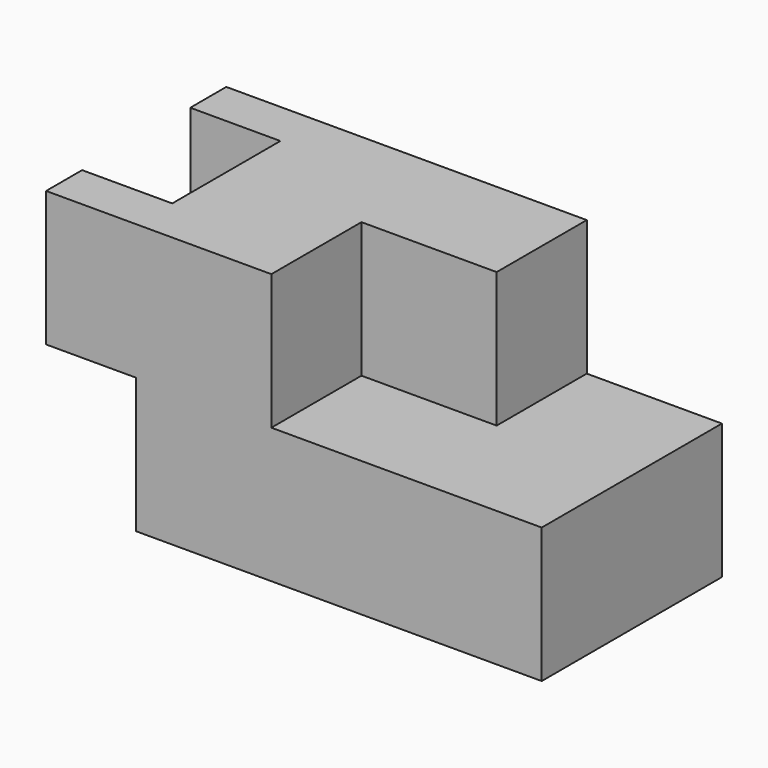
from build123d import *

# Parameters (mm, degrees)
F0_W     = 20
F0_H     = 30
F0_W_2   = 30
F1_DEPTH = 25
F2_DEPTH = 15
F3_DEPTH = 25


with BuildPart() as f1:
    # F0 (on Front) → F1 (new body, symmetric)
    with BuildSketch(Plane.XZ):
        with Locations((10, 45)):
            Rectangle(F0_W, F0_H)
        Polygon((50, 60), (20, 60), (20, 30), (20, 0), (110, 0), (110, 30), (80, 30), (50, 30), align=None)
        with Locations((65, 45)):
            Rectangle(F0_W_2, F0_H)
    extrude(amount=F1_DEPTH, both=True)

    # F0 (on Front) → F2 (cut, symmetric)
    with BuildSketch(Plane.XZ):
        with Locations((10, 45)):
            Rectangle(F0_W, F0_H)
    extrude(amount=F2_DEPTH, both=True, mode=Mode.SUBTRACT)

    # F0 (on Front) → F3 (cut, through all)
    with BuildSketch(Plane.XZ):
        with Locations((65, 45)):
            Rectangle(F0_W_2, F0_H)
    extrude(amount=F3_DEPTH, mode=Mode.SUBTRACT)


solid = f1.part
